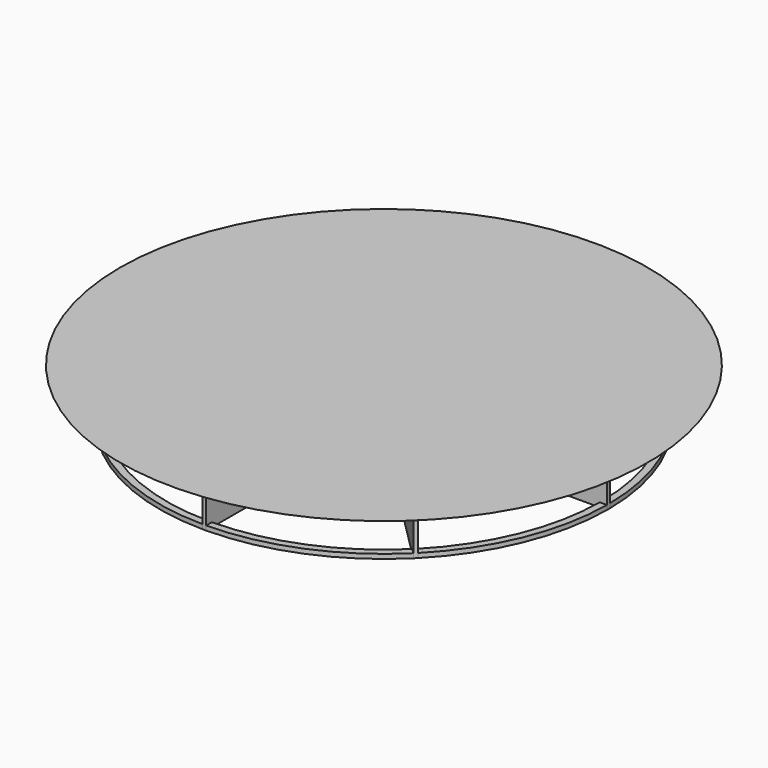
from build123d import *

# Parameters (mm, degrees)
F0_W     = 25
F0_H     = 0.41
F1_DEPTH = 5
F3_COUNT = 8
F7_DEPTH = 0.5


with BuildPart() as f1:
    # F0 (on Top) → F1 (new body)
    with BuildSketch(Plane.XY):
        with Locations((-12.5, 0)):
            Rectangle(F0_W, F0_H)
    extrude(amount=F1_DEPTH)

    # F3: F1 ×8 about axis
    f3_axis = Axis((0, 0, 6.672881), (0, 0, 1))


with BuildPart() as f1_1:
    add(f1.part)
    for i in range(1, F3_COUNT):
        add(f1.part.rotate(f3_axis, i * 360 / F3_COUNT))

    # F4 (on Front) → F5 (revolve)
    with BuildSketch(Plane.XZ):
        with BuildLine():
            Line((0, 6), (-29.393877, 6))
            ThreePointArc((-29.393877, 6), (-15, 1.515308), (0, 0))
            Line((0, 0), (0, 6))
        make_face()
    revolve(axis=Axis((0, 0, 6.672881), (0, 0, 1)))

    # F6 (on Top) → F7 (join)
    with BuildSketch(Plane.XY):
        with BuildLine():
            ThreePointArc((-24.999159, -0.205), (0.102501, -24.99979), (25, 0))
            ThreePointArc((25, 0), (0.102501, 24.99979), (-24.999159, 0.205))
            Line((-24.999159, 0.205), (-24.199132, 0.205))
            ThreePointArc((-24.199132, 0.205), (0.102501, 24.199783), (24.2, 0))
            ThreePointArc((24.2, 0), (0.102501, -24.199783), (-24.199132, -0.205))
            Line((-24.199132, -0.205), (-24.999159, -0.205))
        make_face()
        with BuildLine():
            ThreePointArc((-25, 0), (-24.99979, 0.102501), (-24.999159, 0.205))
            Line((-24.999159, 0.205), (-25, 0.205))
            Line((-25, 0.205), (-25, 0))
        make_face()
        with BuildLine():
            Line((-25, -0.205), (-24.999159, -0.205))
            ThreePointArc((-24.999159, -0.205), (-24.99979, -0.102501), (-25, 0))
            Line((-25, 0), (-25, -0.205))
        make_face()
    extrude(amount=F7_DEPTH)


solid = f1_1.part
